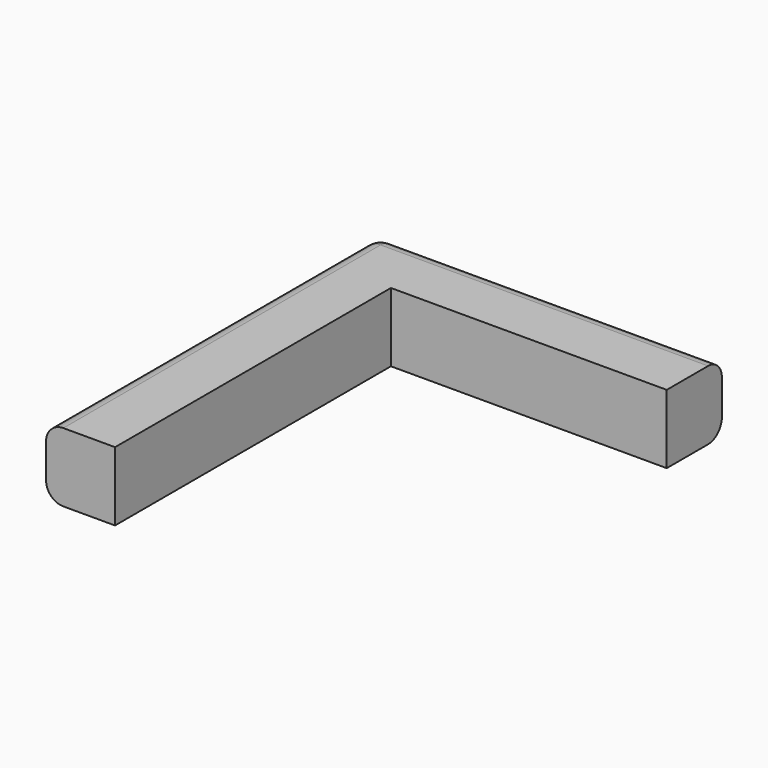
from build123d import *

# Parameters (mm, degrees)
F0_W     = 20
F0_H     = 4
F1_DEPTH = 4
F2_W     = 4
F2_H     = 4
F3_DEPTH = 20
F4_R     = 1
F5_R     = 1
F6_R     = 1


with BuildPart() as f1:
    # F0 (on Top) → F1 (new body)
    with BuildSketch(Plane.XY):
        Rectangle(F0_W, F0_H)
    extrude(amount=F1_DEPTH)

    # F2 (on face) → F3 (join)
    with BuildSketch(Plane.XZ.offset(2)):
        with Locations((-8, 2)):
            Rectangle(F2_W, F2_H)
    extrude(amount=F3_DEPTH)

    # F4
    f4_edges = [f1.edges().sort_by_distance(p)[0] for p in [
        (-10, -10, 4),
    ]]
    fillet(f4_edges, radius=F4_R)

    # F5
    f5_edges = [f1.edges().sort_by_distance(p)[0] for p in [
        (-10, -10, 0),
    ]]
    fillet(f5_edges, radius=F5_R)

    # F6
    f6_edges = [f1.edges().sort_by_distance(p)[0] for p in [
        (0.5, 2, 4),
        (0.5, 2, 0),
    ]]
    fillet(f6_edges, radius=F6_R)


solid = f1.part
